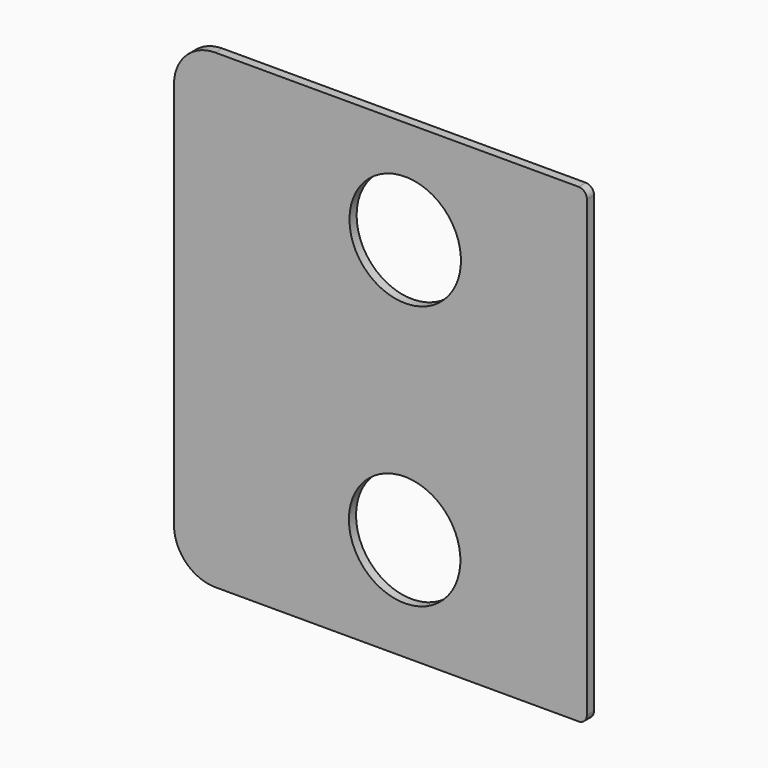
from build123d import *

# Parameters (mm, degrees)
F1_DEPTH = 1.08
F3_D     = 13.5


with BuildPart() as f1:
    # F0 (on Front) → F1 (new body)
    with BuildSketch(Plane.XZ):
        with BuildLine():
            Line((-45, 0), (-1, 0))
            ThreePointArc((-1, 0), (-0.292893, 0.292893), (0, 1))
            Line((0, 1), (0, 56))
            ThreePointArc((0, 56), (-0.292893, 56.707107), (-1, 57))
            Line((-1, 57), (-45, 57))
            ThreePointArc((-45, 57), (-48.535534, 55.535534), (-50, 52))
            Line((-50, 52), (-50, 5))
            ThreePointArc((-50, 5), (-48.535534, 1.464466), (-45, 0))
        make_face()
    extrude(amount=F1_DEPTH)

    # F3 (through all)
    with Locations(Plane.XZ.offset(1.08)):
        with Locations((-22, 44.5), (-22.069119, 12.5)):
            Hole(F3_D / 2)


solid = f1.part
